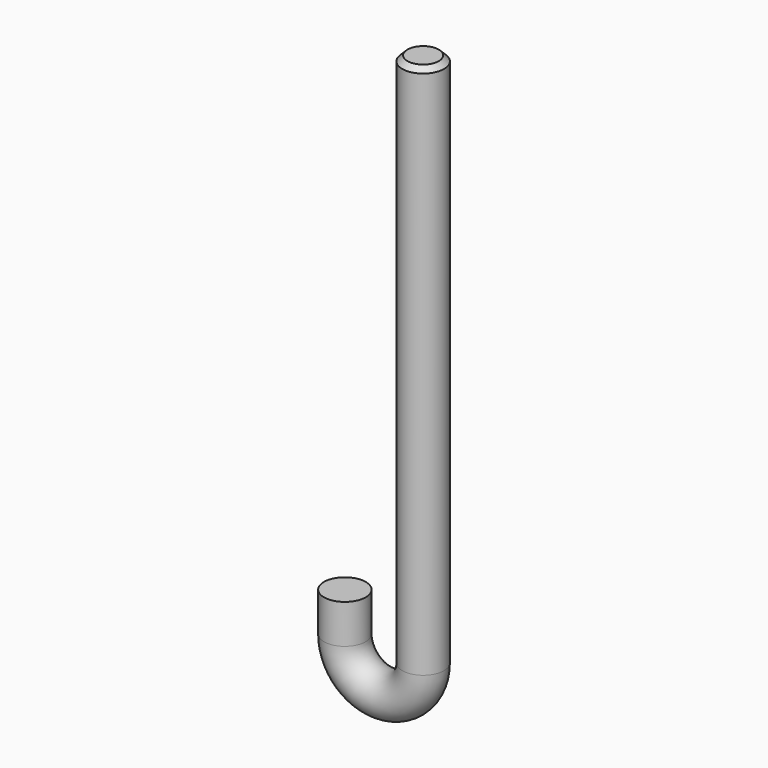
from build123d import *

# Parameters (mm, degrees)
F0_R    = 8
F3_SIZE = 2


with BuildPart() as f2:
    # F2: sweep along a path in F1
    with BuildLine(Plane.XZ) as f2_path:
        Line((0, 0), (0, -205))
        ThreePointArc((0, -205), (-4.3933982822, -215.6066017178), (-15, -220))
        ThreePointArc((-15, -220), (-25.6066017178, -215.6066017178), (-30, -205))
        Line((-30, -205), (-30, -190))
    # F0 (on Top) → F2 (sweep)
    with BuildSketch(Plane.XY):
        Circle(F0_R)
    sweep(path=f2_path.line)

    # F3
    f3_edges = [f2.edges().sort_by_distance(p)[0] for p in [
        (-8, 0, 0),
    ]]
    chamfer(f3_edges, length=F3_SIZE)


solid = f2.part
